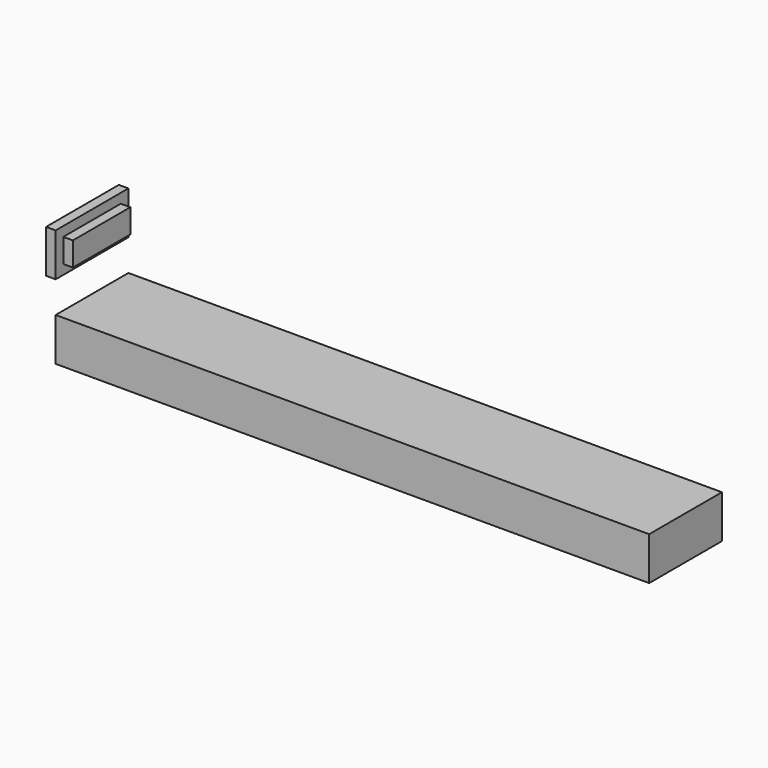
from build123d import *

# Parameters (mm, degrees)
F0_W     = 157.48
F0_H     = 24.13
F1_DEPTH = 11.43
F2_T     = -2.54
F3_W     = 24.13
F3_H     = 11.43
F3_W_2   = 19.05
F3_H_2   = 6.35
F4_DEPTH = 2.54
F5_DEPTH = 2.54


with BuildPart() as f1:
    # F0 (on Top) → F1 (new body)
    with BuildSketch(Plane.XY):
        with Locations((78.74, 12.065)):
            Rectangle(F0_W, F0_H)
    extrude(amount=F1_DEPTH)

    # F2
    f2_openings = [f1.faces().sort_by_distance(p)[0] for p in [
        (0, 12.065, 5.715),
    ]]
    offset(amount=F2_T, openings=f2_openings)


with BuildPart() as f4:
    # F3 (on Right) → F4 (new body)
    with BuildSketch(Plane.YZ):
        with Locations((12.065, 25.464915)):
            Rectangle(F3_W, F3_H)
        with Locations((12.065, 25.464915)):
            Rectangle(F3_W_2, F3_H_2, mode=Mode.SUBTRACT)
        with Locations((12.065, 25.464915)):
            Rectangle(F3_W_2, F3_H_2)
    extrude(amount=-F4_DEPTH)

    # F3 (on Right) → F5 (join)
    with BuildSketch(Plane.YZ):
        with Locations((12.065, 25.464915)):
            Rectangle(F3_W_2, F3_H_2)
    extrude(amount=F5_DEPTH)


solid = Compound([f1.part, f4.part])
